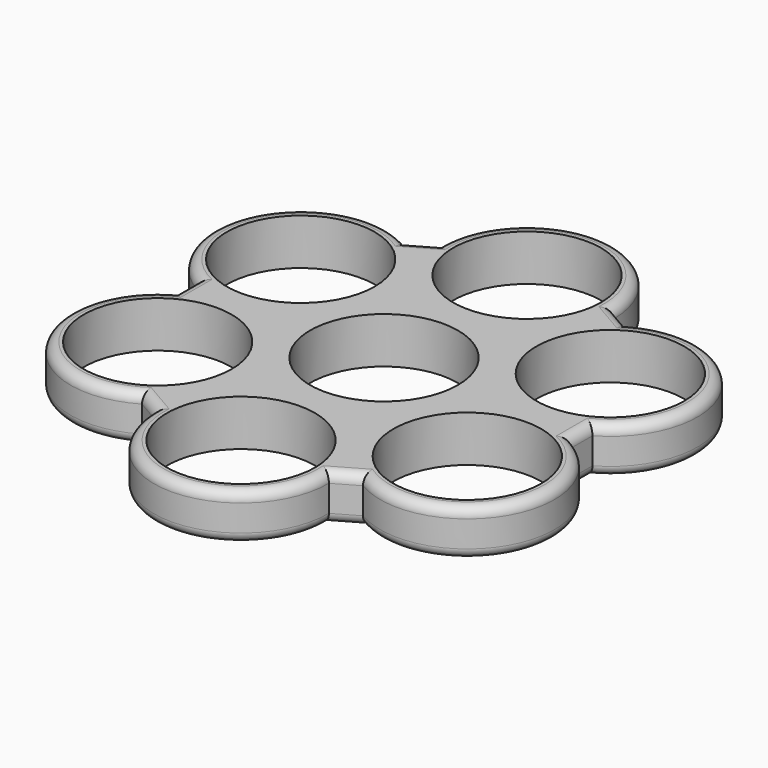
from build123d import *

# Parameters (mm, degrees)
F0_R     = 11.2
F1_DEPTH = 7
F2_R     = 1.5


with BuildPart() as f1:
    # F0 (on Top) → F1 (new body)
    with BuildSketch(Plane.XY):
        with BuildLine():
            Line((16.725368, 24.897565), (13.199376, 26.946698))
            ThreePointArc((13.199376, 26.946698), (-0.006661, 40.274997), (-13.19924, 26.933376))
            Line((-13.19924, 26.933376), (-16.736836, 24.904344))
            ThreePointArc((-16.736836, 24.904344), (-34.882501, 20.13173), (-29.924608, 2.035811))
            Line((-29.924608, 2.035811), (-29.936213, -2.042353))
            ThreePointArc((-29.936213, -2.042353), (-34.87584, -20.143267), (-16.725368, -24.897565))
            Line((-16.725368, -24.897565), (-13.199376, -26.946698))
            ThreePointArc((-13.199376, -26.946698), (0.006661, -40.274997), (13.19924, -26.933376))
            Line((13.19924, -26.933376), (16.736836, -24.904344))
            ThreePointArc((16.736836, -24.904344), (34.882501, -20.13173), (29.924608, -2.035811))
            Line((29.924608, -2.035811), (29.936213, 2.042353))
            ThreePointArc((29.936213, 2.042353), (34.87584, 20.143267), (16.725368, 24.897565))
        make_face()
        with Locations((-23.447637, -13.537499)):
            Circle(F0_R, mode=Mode.SUBTRACT)
        with Locations((0, -27.074999)):
            Circle(F0_R, mode=Mode.SUBTRACT)
        with Locations((23.447637, -13.537499)):
            Circle(F0_R, mode=Mode.SUBTRACT)
        with Locations((-23.447637, 13.537499)):
            Circle(F0_R, mode=Mode.SUBTRACT)
        Circle(F0_R, mode=Mode.SUBTRACT)
        with Locations((23.447637, 13.537499)):
            Circle(F0_R, mode=Mode.SUBTRACT)
        with Locations((0, 27.074999)):
            Circle(F0_R, mode=Mode.SUBTRACT)
    extrude(amount=F1_DEPTH)

    # F2
    f2_edges = [f1.edges().sort_by_distance(p)[0] for p in [
        (-0.006661, 40.274997, 0),
        (-14.968038, 25.91886, 0),
        (-34.882501, 20.13173, 0),
        (-29.93041, -0.003271, 0),
        (-34.87584, -20.143267, 0),
        (-14.962372, -25.922131, 0),
        (0.006661, -40.274997, 0),
        (14.968038, -25.91886, 0),
        (34.882501, -20.13173, 0),
        (34.87584, 20.143267, 0),
        (14.962372, 25.922131, 0),
        (29.93041, 0.003271, 0),
        (-14.968038, 25.91886, 7),
        (-0.006661, 40.274997, 7),
        (14.962372, 25.922131, 7),
        (34.87584, 20.143267, 7),
        (29.93041, 0.003271, 7),
        (34.882501, -20.13173, 7),
        (14.968038, -25.91886, 7),
        (0.006661, -40.274997, 7),
        (-14.962372, -25.922131, 7),
        (-34.87584, -20.143267, 7),
        (-29.93041, -0.003271, 7),
        (-34.882501, 20.13173, 7),
    ]]
    fillet(f2_edges, radius=F2_R)


solid = f1.part
